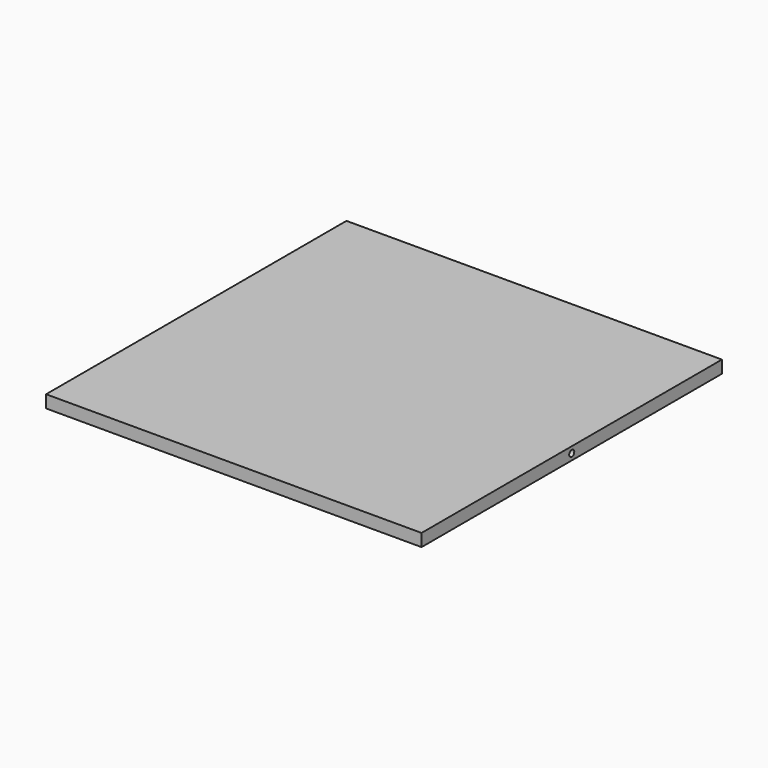
from build123d import *

# Parameters (mm, degrees)
F0_W     = 762
F0_H     = 762
F1_DEPTH = 25.4
F2_R     = 6.4135
F3_DEPTH = 50.8
F4_R     = 6.4135
F5_DEPTH = 50.8


with BuildPart() as f1:
    # F0 (on Top) → F1 (new body)
    with BuildSketch(Plane.XY):
        Rectangle(F0_W, F0_H)
    extrude(amount=F1_DEPTH)

    # F2 (on face) → F3 (cut)
    with BuildSketch(Plane.YZ.offset(381)):
        with Locations((0, 12.7)):
            Circle(F2_R)
    extrude(amount=-F3_DEPTH, mode=Mode.SUBTRACT)

    # F4 (on face) → F5 (cut)
    with BuildSketch(Plane(origin=(-381, 0, 0), x_dir=(0, -1, 0), z_dir=(-1, 0, 0))):
        with Locations((0, 12.7)):
            Circle(F4_R)
    extrude(amount=-F5_DEPTH, mode=Mode.SUBTRACT)


solid = f1.part
